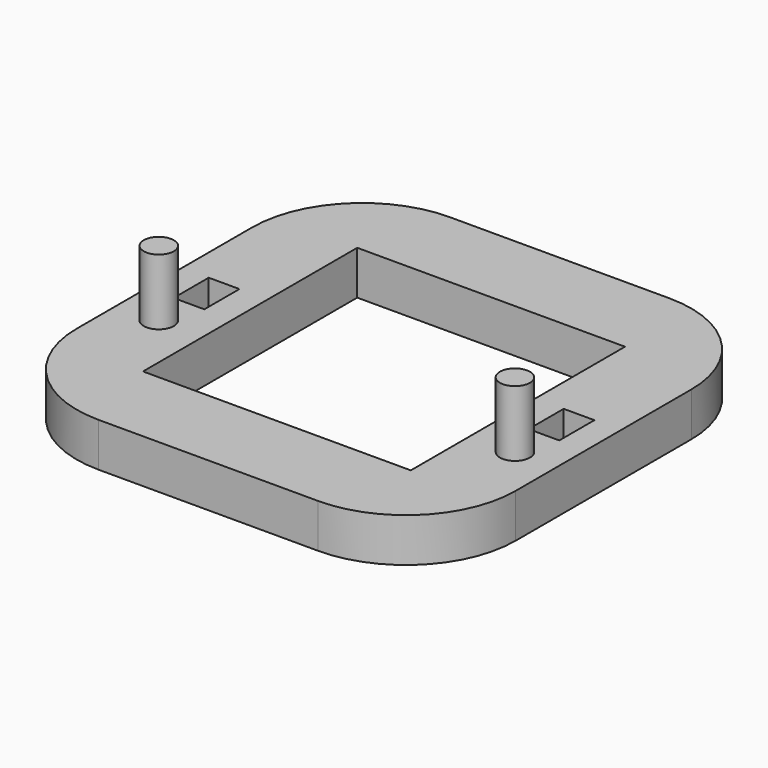
from build123d import *

# Parameters (mm, degrees)
F0_R     = 3.425
F0_W     = 7
F0_H     = 10
F0_W_2   = 61
F0_H_2   = 61
F1_DEPTH = 10
F2_DEPTH = 25


with BuildPart() as f1:
    # F0 (on Top) → F1 (new body)
    with BuildSketch(Plane.XY):
        with BuildLine():
            Line((-25.11837, -49.808268), (24.88163, -49.808268))
            ThreePointArc((24.88163, -49.808268), (42.5593, -42.485937), (49.88163, -24.808268))
            Line((49.88163, -24.808268), (49.88163, 25.191732))
            ThreePointArc((49.88163, 25.191732), (42.5593, 42.869402), (24.88163, 50.191732))
            Line((24.88163, 50.191732), (-25.11837, 50.191732))
            ThreePointArc((-25.11837, 50.191732), (-42.796039, 42.869402), (-50.11837, 25.191732))
            Line((-50.11837, 25.191732), (-50.11837, -24.808268))
            ThreePointArc((-50.11837, -24.808268), (-42.796039, -42.485937), (-25.11837, -49.808268))
        make_face()
        with Locations((-40.680433, -13.233268)):
            Circle(F0_R, mode=Mode.SUBTRACT)
        with Locations((40.443694, -13.233268)):
            Circle(F0_R, mode=Mode.SUBTRACT)
        with Locations((-40.547645, 0.191732)):
            Rectangle(F0_W, F0_H, mode=Mode.SUBTRACT)
        with Locations((-0.11837, 0.191732)):
            Rectangle(F0_W_2, F0_H_2, mode=Mode.SUBTRACT)
        with Locations((40.310906, 0.191732)):
            Rectangle(F0_W, F0_H, mode=Mode.SUBTRACT)
    extrude(amount=F1_DEPTH)

    # F0 (on Top) → F2 (join)
    with BuildSketch(Plane.XY):
        with Locations((-40.680433, -13.233268)):
            Circle(F0_R)
        with Locations((40.443694, -13.233268)):
            Circle(F0_R)
    extrude(amount=F2_DEPTH)


solid = f1.part
